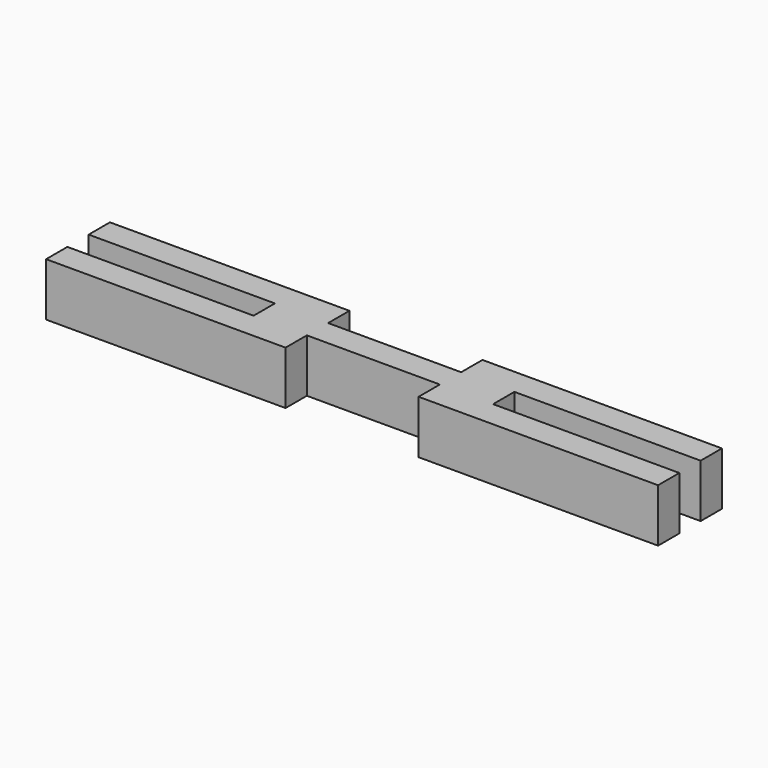
from build123d import *

# Parameters (mm, degrees)
F1_DEPTH = 12.7


with BuildPart() as f1:
    # F0 (on Top) → F1 (new body)
    with BuildSketch(Plane.XY):
        Polygon((-20.386484, 42.413857), (-77.536484, 42.413857), (-77.536484, 36.063857), (-33.086484, 36.063857), (-20.386484, 36.063857), align=None)
        Polygon((11.363516, 36.063857), (-20.386484, 36.063857), (-33.086484, 36.063857), (-33.086484, 29.713857), (-20.386484, 29.713857), (11.363516, 29.713857), (24.063516, 29.713857), (24.063516, 36.063857), align=None)
        Polygon((11.363516, 42.413857), (11.363516, 36.063857), (24.063516, 36.063857), (68.513516, 36.063857), (68.513516, 42.413857), align=None)
        Polygon((-20.386484, 29.713857), (-33.086484, 29.713857), (-77.536484, 29.713857), (-77.536484, 23.363857), (-20.386484, 23.363857), align=None)
        Polygon((68.513516, 29.713857), (24.063516, 29.713857), (11.363516, 29.713857), (11.363516, 23.363857), (68.513516, 23.363857), align=None)
    extrude(amount=F1_DEPTH)


solid = f1.part
